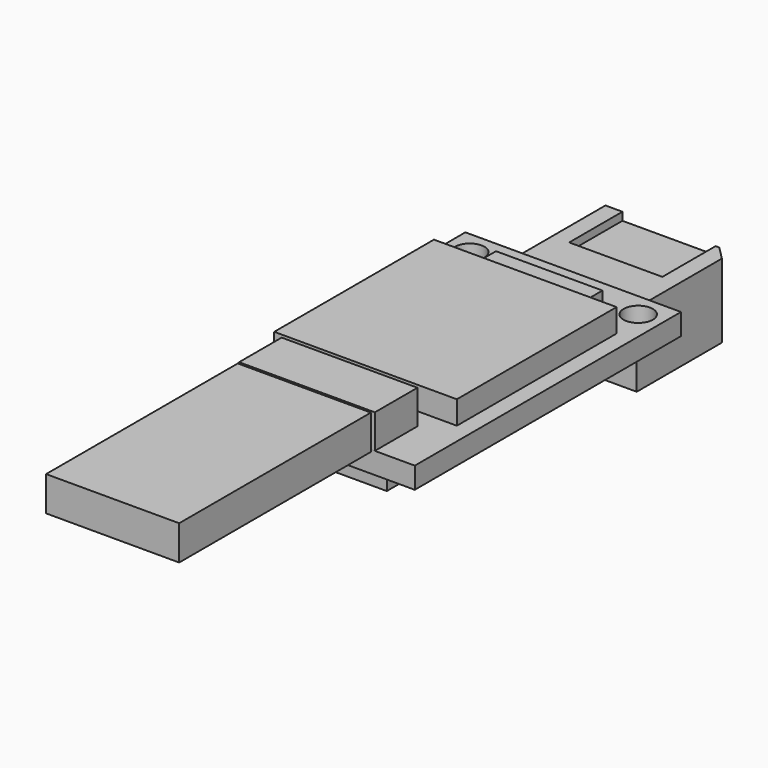
from build123d import *

# Parameters (mm, degrees)
SKETCH_W        = 16.2
SKETCH_H        = 25
PAD_DEPTH       = 1.6
SKETCH001_R     = 1.1
POCKET_DEPTH    = 1.601
SKETCH002_W     = 9.55
SKETCH002_H     = 5.56
PAD001_DEPTH    = 9
CHAMFER_SIZE    = 1
SKETCH003_W     = 7
SKETCH003_H     = 5
POCKET001_DEPTH = 5
SKETCH004_R     = 1.6
POCKET002_DEPTH = 5
SKETCH005_W     = 7.5
SKETCH005_H     = 2.25
PAD002_DEPTH    = 3.6
SKETCH006_W     = 10
SKETCH006_H     = 3
PAD003_DEPTH    = 1.6
SKETCH007_W     = 10.2
SKETCH007_H     = 4
PAD004_DEPTH    = 2.55
SKETCH008_W     = 8.22
SKETCH008_H     = 0.6
PAD005_DEPTH    = 7
SKETCH009_W     = 8
SKETCH009_H     = 1.8
PAD006_DEPTH    = 1
SKETCH010_W     = 13.72
SKETCH010_H     = 15
PAD007_DEPTH    = 1.75
SKETCH011_W     = 10
SKETCH011_H     = 2.6
PAD008_DEPTH    = 18


with BuildPart() as mainboard:
    # Sketch → Pad (new body)
    with BuildSketch(Plane.XY):
        with Locations((0, -12.5)):
            Rectangle(SKETCH_W, SKETCH_H)
    extrude(amount=PAD_DEPTH)

    # Sketch001 → Pocket (cut, through all)
    with BuildSketch(Plane.XY):
        with Locations((-6.325, -1.8)):
            Circle(SKETCH001_R)
        with Locations((6.325, -1.8)):
            Circle(SKETCH001_R)
    extrude(amount=POCKET_DEPTH, mode=Mode.SUBTRACT)


with BuildPart() as obj1:
    # Sketch002 → Pad001 (new body)
    with BuildSketch(Plane.XZ):
        with Locations((0, -1.98)):
            Rectangle(SKETCH002_W, SKETCH002_H)
    extrude(amount=-PAD001_DEPTH)

    # Chamfer
    chamfer_edges = [obj1.edges().sort_by_distance(p)[0] for p in [
        (4.775, 9, -1.98),
    ]]
    chamfer(chamfer_edges, length=CHAMFER_SIZE)

    # Sketch003 (on Face5 of Chamfer) → Pocket001 (cut)
    with BuildSketch(Plane(origin=(0, 9, 0), x_dir=(1, 0, 0), z_dir=(0, 1, 0))):
        with Locations((0, 6.76)):
            Rectangle(SKETCH003_W, SKETCH003_H)
        with Locations((0, -2.7)):
            Rectangle(SKETCH003_W, SKETCH003_H)
    extrude(amount=-POCKET001_DEPTH, mode=Mode.SUBTRACT)

    # Sketch004 (on Face3 of Pocket001) → Pocket002 (cut)
    with BuildSketch(Plane(origin=(0, 9, 0), x_dir=(1, 0, 0), z_dir=(0, 1, 0))):
        with Locations((-2.2, 2)):
            Circle(SKETCH004_R)
        with Locations((2.2, 2)):
            Circle(SKETCH004_R)
    extrude(amount=-POCKET002_DEPTH, mode=Mode.SUBTRACT)


with BuildPart() as obj2:
    # Sketch005 → Pad002 (new body)
    with BuildSketch(Plane.XZ):
        with Locations((0, -1.125)):
            Rectangle(SKETCH005_W, SKETCH005_H)
    extrude(amount=PAD002_DEPTH)


with BuildPart() as pinsolderpoints:
    # Sketch006 → Pad003 (new body)
    with BuildSketch(Plane.XY):
        with Locations((0, -22.25)):
            Rectangle(SKETCH006_W, SKETCH006_H)
    extrude(amount=-PAD003_DEPTH)


with BuildPart() as pinmount:
    # Sketch007 (on DatumPlane) → Pad004 (new body)
    with BuildSketch(Plane.XY.offset(1.6)):
        with Locations((0, -23)):
            Rectangle(SKETCH007_W, SKETCH007_H)
    extrude(amount=PAD004_DEPTH)


with BuildPart() as pins:
    # Sketch008 (on DatumPlane) → Pad005 (new body)
    with BuildSketch(Plane.XZ.offset(25)):
        with Locations((0, 2.9)):
            Rectangle(SKETCH008_W, SKETCH008_H)
    extrude(amount=PAD005_DEPTH)


with BuildPart() as obj3:
    # Sketch009 (on DatumPlane) → Pad006 (new body)
    with BuildSketch(Plane.XY.offset(1.6)):
        with Locations((0, -3.15)):
            Rectangle(SKETCH009_W, SKETCH009_H)
    extrude(amount=PAD006_DEPTH)


with BuildPart() as chips:
    # Sketch010 (on DatumPlane) → Pad007 (new body)
    with BuildSketch(Plane.XY.offset(1.6)):
        with Locations((0, -12)):
            Rectangle(SKETCH010_W, SKETCH010_H)
    extrude(amount=PAD007_DEPTH)


with BuildPart() as pinconnectors:
    # Sketch011 (on DatumPlane) → Pad008 (new body)
    with BuildSketch(Plane.XZ.offset(25.25)):
        with Locations((0, 2.9)):
            Rectangle(SKETCH011_W, SKETCH011_H)
    extrude(amount=PAD008_DEPTH)


solid = Compound([mainboard.part, obj1.part, obj2.part, pinsolderpoints.part, pinmount.part, pins.part, obj3.part, chips.part, pinconnectors.part])
